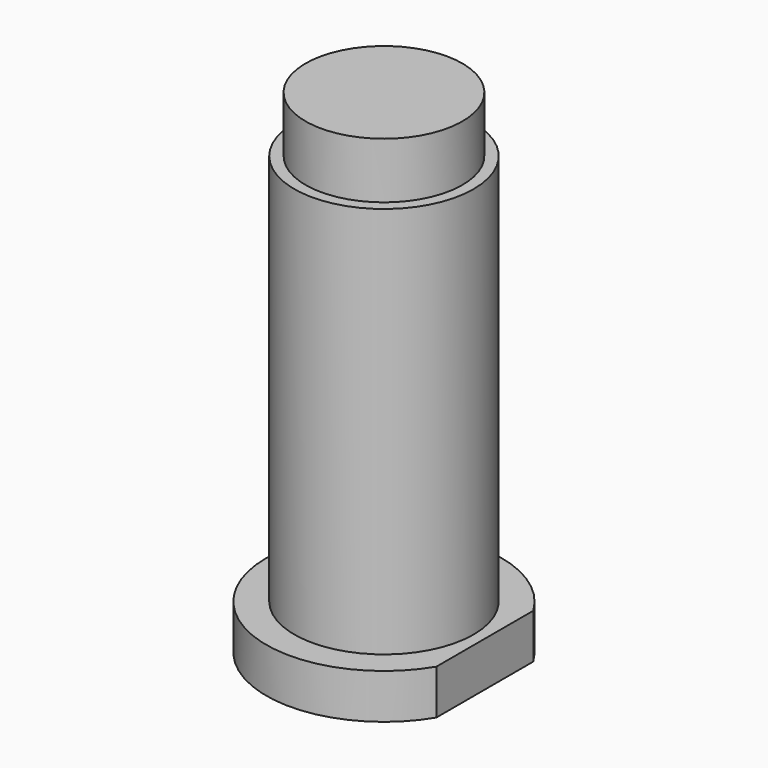
from build123d import *

# Parameters (mm, degrees)
F0_R     = 10.5
F1_DEPTH = 4
F2_R     = 8
F3_DEPTH = 39
F4_W     = 7
F4_H     = 5
F6_W     = 5.926284
F6_H     = 21.135783
F7_DEPTH = 6


with BuildPart() as f1:
    # F0 (on Top) → F1 (new body)
    with BuildSketch(Plane.XY):
        Circle(F0_R)
    extrude(amount=F1_DEPTH)

    # F2 (on Top) → F3 (join)
    with BuildSketch(Plane.XY):
        Circle(F2_R)
    extrude(amount=F3_DEPTH)

    # F4 (on Right) → F5 (revolve)
    with BuildSketch(Plane.YZ):
        with Locations((3.5, 41.5)):
            Rectangle(F4_W, F4_H)
    revolve(axis=Axis((0, 0, 41.5), (0, 0, -1)))

    # F6 (on Top) → F7 (cut)
    with BuildSketch(Plane.XY):
        with Locations((11.963142, 0.046621)):
            Rectangle(F6_W, F6_H)
    extrude(amount=F7_DEPTH, mode=Mode.SUBTRACT)


solid = f1.part
